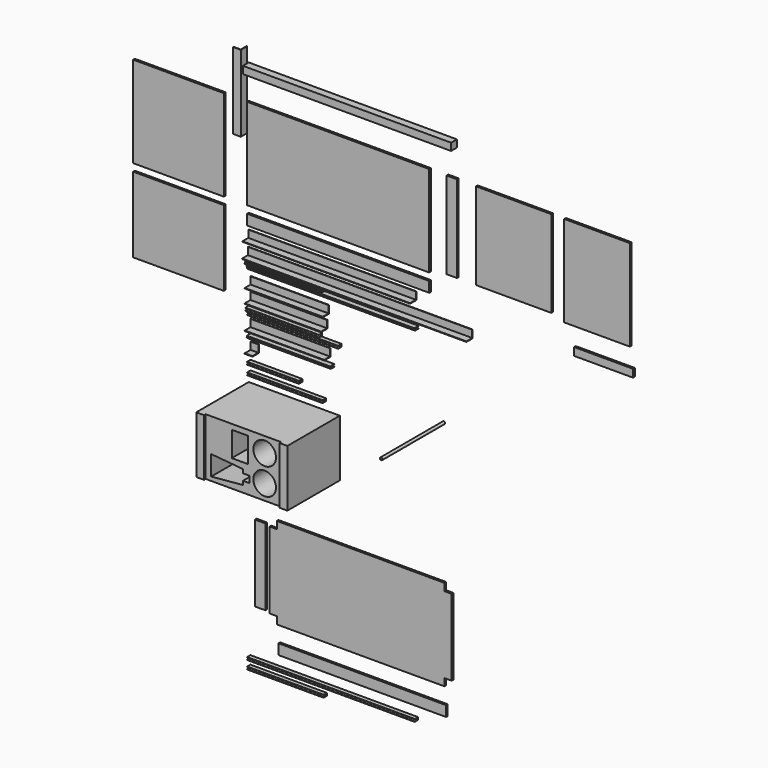
from build123d import *

# Parameters (mm, degrees)
F11_W     = 800
F11_H     = 28
F12_DEPTH = 28
F13_W     = 700
F13_H     = 350
F14_DEPTH = 8
F15_W     = 700
F15_H     = 40
F16_DEPTH = 8
F17_W     = 40
F17_H     = 334
F18_DEPTH = 8
F20_DEPTH = 644
F22_DEPTH = 294
F25_DEPTH = 862
F27_DEPTH = 294
F29_DEPTH = 644
F30_W     = 290
F30_H     = 334
F31_DEPTH = 8
F32_W     = 348.5
F32_H     = 350
F33_DEPTH = 8
F34_W     = 348.5
F34_H     = 290
F35_DEPTH = 8
F37_DEPTH = 300
F39_DEPTH = 294
F41_DEPTH = 282.5
F43_DEPTH = 350
F45_DEPTH = 305.5
F47_DEPTH = 320.5
F48_W     = 252
F48_H     = 350
F49_DEPTH = 8
F50_W     = 227
F50_H     = 30
F51_DEPTH = 8
F53_DEPTH = 30
F55_DEPTH = 199
F57_DEPTH = 290
F58_W     = 350
F58_H     = 219
F59_DEPTH = 252
F60_W     = 290
F60_H     = 219
F61_DEPTH = 8
F62_R     = 43.5
F63_DEPTH = 216
F64_W     = 63
F64_H     = 96
F65_DEPTH = 96
F67_DEPTH = 170
F68_R     = 5
F69_DEPTH = 300
F71_DEPTH = 8
F72_W     = 644
F72_H     = 40
F74_DEPTH = 8
F73_W     = 40
F73_H     = 294
F75_DEPTH = 8
F78_DEPTH = 644
F79_DEPTH = 294


with BuildPart() as f12:
    # F11 (on Front) → F12 (new body)
    with BuildSketch(Plane.XZ):
        with Locations((400, 240.2745776425)):
            Rectangle(F11_W, F11_H)
    extrude(amount=F12_DEPTH)


with BuildPart() as f14:
    # F13 (on Front) → F14 (new body)
    with BuildSketch(Plane.XZ):
        with Locations((350, -50.5480670216)):
            Rectangle(F13_W, F13_H)
    extrude(amount=F14_DEPTH)


with BuildPart() as f16:
    # F15 (on Front) → F16 (new body)
    with BuildSketch(Plane.XZ):
        with Locations((350, -274.2052630392)):
            Rectangle(F15_W, F15_H)
    extrude(amount=F16_DEPTH)


with BuildPart() as f18:
    # F17 (on Front) → F18 (new body)
    with BuildSketch(Plane.XZ):
        with Locations((786.4727032185, -42.5480670216)):
            Rectangle(F17_W, F17_H)
    extrude(amount=F18_DEPTH)


with BuildPart() as f20:
    # F19 (on Right) → F20 (new body)
    with BuildSketch(Plane.YZ):
        Polygon((0, -340.418853458), (0, -310.418853458), (-2, -310.418853458), (-2, -338.418853458), (-30, -338.418853458), (-30, -340.418853458), align=None)
    extrude(amount=F20_DEPTH)


with BuildPart() as f22:
    # F21 (on Top) → F22 (new body)
    with BuildSketch(Plane.XY):
        Polygon((-21.8577523505, -10.6666666667), (-21.8577523505, 19.3333333333), (-23.8577523505, 19.3333333333), (-23.8577523505, -8.6666666667), (-51.8577523505, -8.6666666667), (-51.8577523505, -10.6666666667), align=None)
    extrude(amount=F22_DEPTH)


with BuildPart() as f25:
    # F24 (on Right) → F25 (new body)
    with BuildSketch(Plane.YZ):
        Polygon((-1.8925940989, -397.9965421582), (-1.8925940989, -367.9965421582), (-3.8925940989, -367.9965421582), (-3.8925940989, -395.9965421582), (-31.8925940989, -395.9965421582), (-31.8925940989, -397.9965421582), align=None)
    extrude(amount=F25_DEPTH)


with BuildPart() as f27:
    # F26 (on Right) → F27 (new body)
    with BuildSketch(Plane.YZ):
        Polygon((0, -413.698394537), (0, -412.198394537), (-20.5, -412.198394537), (-17.5, -415.198394537), (-20.5, -418.198394537), (-16.5, -422.198394537), (0, -422.198394537), (0, -420.698394537), (-14.5, -420.698394537), (-14.5, -413.698394537), align=None)
    extrude(amount=F27_DEPTH)


with BuildPart() as f29:
    # F28 (on Right) → F29 (new body)
    with BuildSketch(Plane.YZ):
        Polygon((10.4, -432.7575189978), (10.4, -431.2575189978), (-10.1, -431.2575189978), (-7.1, -434.2575189978), (-10.1, -437.2575189978), (-6.1, -441.2575189978), (10.4, -441.2575189978), (10.4, -439.7575189978), (-4.1, -439.7575189978), (-4.1, -432.7575189978), align=None)
    extrude(amount=F29_DEPTH)


with BuildPart() as f31:
    # F30 (on Front) → F31 (new body)
    with BuildSketch(Plane.XZ):
        with Locations((1024.273853302, -42.5480670216)):
            Rectangle(F30_W, F30_H)
    extrude(amount=F31_DEPTH)


with BuildPart() as f33:
    # F32 (on Front) → F33 (new body)
    with BuildSketch(Plane.XZ):
        with Locations((-263.0980916619, -50.5480670216)):
            Rectangle(F32_W, F32_H)
    extrude(amount=F33_DEPTH)


with BuildPart() as f35:
    # F34 (on Front) → F35 (new body)
    with BuildSketch(Plane.XZ):
        with Locations((-263.0980916619, -399.2052630392)):
            Rectangle(F34_W, F34_H)
    extrude(amount=F35_DEPTH)


with BuildPart() as f37:
    # F36 (on Right) → F37 (new body)
    with BuildSketch(Plane.YZ):
        Polygon((10.6666666667, -502.6772293473), (10.6666666667, -472.6772293473), (8.6666666667, -472.6772293473), (8.6666666667, -500.6772293473), (-19.3333333333, -500.6772293473), (-19.3333333333, -502.6772293473), align=None)
    extrude(amount=F37_DEPTH)


with BuildPart() as f39:
    # F38 (on Right) → F39 (new body)
    with BuildSketch(Plane.YZ):
        Polygon((10.6666666667, -554.790680411), (10.6666666667, -524.790680411), (8.6666666667, -524.790680411), (8.6666666667, -552.790680411), (-19.3333333333, -552.790680411), (-19.3333333333, -554.790680411), align=None)
    extrude(amount=F39_DEPTH)


with BuildPart() as f41:
    # F40 (on Right) → F41 (new body)
    with BuildSketch(Plane.YZ):
        Polygon((0, -568.5570693267), (-16.5, -568.5570693267), (-16.5, -570.0570693267), (-1.5, -570.0570693267), (-1.5, -577.0570693267), (-16.5, -577.0570693267), (-16.5, -578.5570693267), (0, -578.5570693267), align=None)
    extrude(amount=F41_DEPTH)


with BuildPart() as f43:
    # F42 (on Right) → F43 (new body)
    with BuildSketch(Plane.YZ):
        Polygon((8.75, -587.3948781565), (-7.75, -587.3948781565), (-7.75, -588.8948781565), (7.25, -588.8948781565), (7.25, -595.8948781565), (-7.75, -595.8948781565), (-7.75, -597.3948781565), (8.75, -597.3948781565), align=None)
    extrude(amount=F43_DEPTH)


with BuildPart() as f45:
    # F44 (on Right) → F45 (new body)
    with BuildSketch(Plane.YZ):
        Polygon((10.6666666667, -646.6788613449), (10.6666666667, -616.6788613449), (8.6666666667, -616.6788613449), (8.6666666667, -644.6788613449), (-19.3333333333, -644.6788613449), (-19.3333333333, -646.6788613449), align=None)
    extrude(amount=F45_DEPTH)


with BuildPart() as f47:
    # F46 (on Right) → F47 (new body)
    with BuildSketch(Plane.YZ):
        Polygon((10.4, -667.2389253959), (10.4, -665.7389253959), (-10.1, -665.7389253959), (-7.1, -668.7389253959), (-10.1, -671.7389253959), (-6.1, -675.7389253959), (10.4, -675.7389253959), (10.4, -674.2389253959), (-4.1, -674.2389253959), (-4.1, -667.2389253959), align=None)
    extrude(amount=F47_DEPTH)


with BuildPart() as f49:
    # F48 (on Front) → F49 (new body)
    with BuildSketch(Plane.XZ):
        with Locations((1344.7186479568, -50.5480670216)):
            Rectangle(F48_W, F48_H)
        with Locations((1344.7186479568, -50.5480670216)):
            Rectangle(F48_W, F48_H)
    extrude(amount=F49_DEPTH)


with BuildPart() as f51:
    # F50 (on Front) → F51 (new body)
    with BuildSketch(Plane.XZ):
        with Locations((1369.8319792747, -311.5415532205)):
            Rectangle(F50_W, F50_H)
    extrude(amount=F51_DEPTH)


with BuildPart() as f53:
    # F52 (on Right) → F53 (new body)
    with BuildSketch(Plane.YZ):
        Polygon((10.6666666667, -723.5384715001), (10.6666666667, -693.5384715001), (8.6666666667, -693.5384715001), (8.6666666667, -721.5384715001), (-19.3333333333, -721.5384715001), (-19.3333333333, -723.5384715001), align=None)
    extrude(amount=F53_DEPTH)


with BuildPart() as f55:
    # F54 (on Right) → F55 (new body)
    with BuildSketch(Plane.YZ):
        Polygon((8.75, -755.094541125), (-7.75, -755.094541125), (-7.75, -756.594541125), (7.25, -756.594541125), (7.25, -763.594541125), (-7.75, -763.594541125), (-7.75, -765.094541125), (8.75, -765.094541125), align=None)
    extrude(amount=F55_DEPTH)


with BuildPart() as f57:
    # F56 (on Right) → F57 (new body)
    with BuildSketch(Plane.YZ):
        Polygon((8.75, -790.9390280303), (-7.75, -790.9390280303), (-7.75, -792.4390280303), (7.25, -792.4390280303), (7.25, -799.4390280303), (-7.75, -799.4390280303), (-7.75, -800.9390280303), (8.75, -800.9390280303), align=None)
    extrude(amount=F57_DEPTH)


with BuildPart() as f59:
    # F58 (on Front) → F59 (new body)
    with BuildSketch(Plane.XZ):
        with Locations((175, -936.2445534289)):
            Rectangle(F58_W, F58_H)
    extrude(amount=F59_DEPTH)

    # F60 (on face) → F61 (cut)
    with BuildSketch(Plane.XZ.offset(252)):
        with Locations((175, -936.2445534289)):
            Rectangle(F60_W, F60_H)
    extrude(amount=-F61_DEPTH, mode=Mode.SUBTRACT)

    # F62 (on face) → F63 (cut)
    with BuildSketch(Plane.XZ.offset(244)):
        with Locations((256.5, -885.2445534289)):
            Circle(F62_R)
        with Locations((256.5, -987.2445534289)):
            Circle(F62_R)
    extrude(amount=-F63_DEPTH, mode=Mode.SUBTRACT)

    # F64 (on face) → F65 (cut)
    with BuildSketch(Plane.XZ.offset(244)):
        with Locations((161.5, -894.7445534289)):
            Rectangle(F64_W, F64_H)
    extrude(amount=-F65_DEPTH, mode=Mode.SUBTRACT)

    # F66 (on face) → F67 (cut)
    with BuildSketch(Plane.XZ.offset(244)):
        Polygon((51, -1030.7445534289), (173, -1019.7445534289), (173, -1005.2445534289), (198, -1005.2445534289), (198, -992.7445534289), (198, -980.2445534289), (173, -980.2445534289), (173, -965.7445534289), (51, -954.7445534289), (51, -992.7445534289), align=None)
    extrude(amount=-F67_DEPTH, mode=Mode.SUBTRACT)


with BuildPart() as f69:
    # F68 (on Front) → F69 (new body)
    with BuildSketch(Plane.XZ):
        with Locations((749.374628067, -720.7554578781)):
            Circle(F68_R)
    extrude(amount=F69_DEPTH)


with BuildPart() as f71:
    # F70 (on face) → F71 (new body)
    with BuildSketch(Plane.XZ.offset(8)):
        Polygon((764.5656497478, -1251.0043354034), (120.5656497478, -1251.0043354034), (120.5656497478, -1279.0043354034), (92.5656497478, -1279.0043354034), (92.5656497478, -1573.0043354034), (120.5656497478, -1573.0043354034), (120.5656497478, -1601.0043354034), (764.5656497478, -1601.0043354034), (764.5656497478, -1573.0043354034), (792.5656497478, -1573.0043354034), (792.5656497478, -1279.0043354034), (764.5656497478, -1279.0043354034), align=None)
    extrude(amount=F71_DEPTH)


with BuildPart() as f74:
    # F72 (on Front) → F74 (new body)
    with BuildSketch(Plane.XZ):
        with Locations((442.5656497478, -1688.0416679382)):
            Rectangle(F72_W, F72_H)
    extrude(amount=F74_DEPTH)


with BuildPart() as f75:
    # F73 (on Front) → F75 (new body)
    with BuildSketch(Plane.XZ):
        with Locations((50.544719696, -1426.0043354034)):
            Rectangle(F73_W, F73_H)
    extrude(amount=F75_DEPTH)


with BuildPart() as f78:
    # F76 (on Right) → F78 (new body)
    with BuildSketch(Plane.YZ):
        Polygon((8.25, -1753.97232024), (-7.75, -1753.97232024), (-7.75, -1755.47232024), (7.25, -1755.47232024), (7.25, -1762.47232024), (-7.75, -1762.47232024), (-7.75, -1763.97232024), (8.25, -1763.97232024), align=None)
    extrude(amount=F78_DEPTH)


with BuildPart() as f79:
    # F77 (on Right) → F79 (new body)
    with BuildSketch(Plane.YZ):
        Polygon((8.25, -1786.0488271154), (-7.75, -1786.0488271154), (-7.75, -1787.5488271154), (7.25, -1787.5488271154), (7.25, -1794.5488271154), (-7.75, -1794.5488271154), (-7.75, -1796.0488271154), (8.25, -1796.0488271154), align=None)
    extrude(amount=F79_DEPTH)


solid = Compound([f12.part, f14.part, f16.part, f18.part, f20.part, f22.part, f25.part, f27.part, f29.part, f31.part, f33.part, f35.part, f37.part, f39.part, f41.part, f43.part, f45.part, f47.part, f49.part, f51.part, f53.part, f55.part, f57.part, f59.part, f69.part, f71.part, f74.part, f75.part, f78.part, f79.part])
